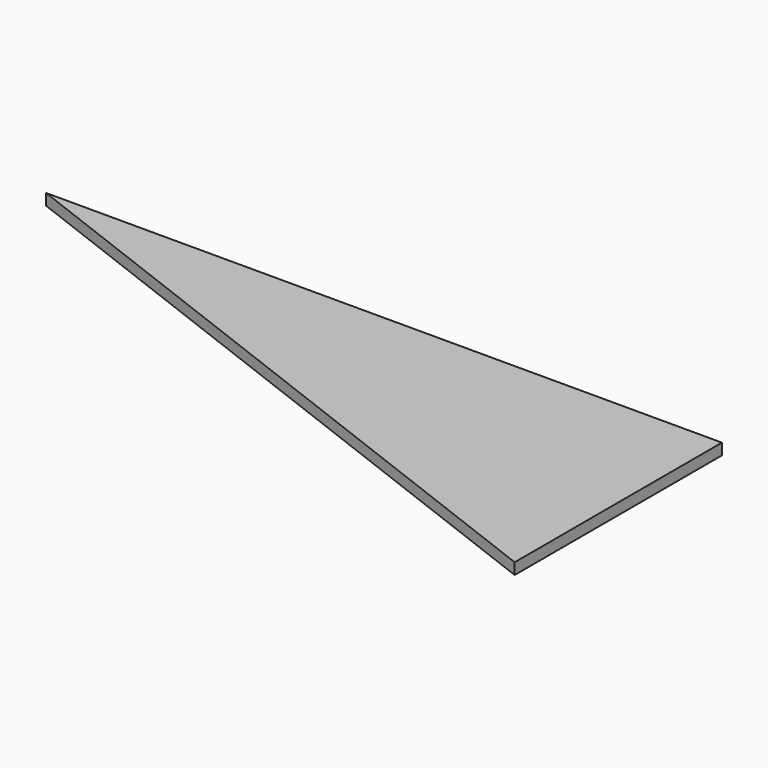
from build123d import *

# Parameters (mm, degrees)
F0_W     = 190.5
F0_H     = 73.025
F1_DEPTH = 3.175
F3_DEPTH = 25.4


with BuildPart() as f1:
    # F0 (on Top) → F1 (new body)
    with BuildSketch(Plane.XY):
        with Locations((95.25, 36.5125)):
            Rectangle(F0_W, F0_H)
    extrude(amount=F1_DEPTH)

    # F2 (on face) → F3 (cut)
    with BuildSketch(Plane.XY.offset(3.175)):
        Polygon((190.5, 0), (0, 73.025), (0, 0), align=None)
    extrude(amount=-F3_DEPTH, mode=Mode.SUBTRACT)


solid = f1.part
